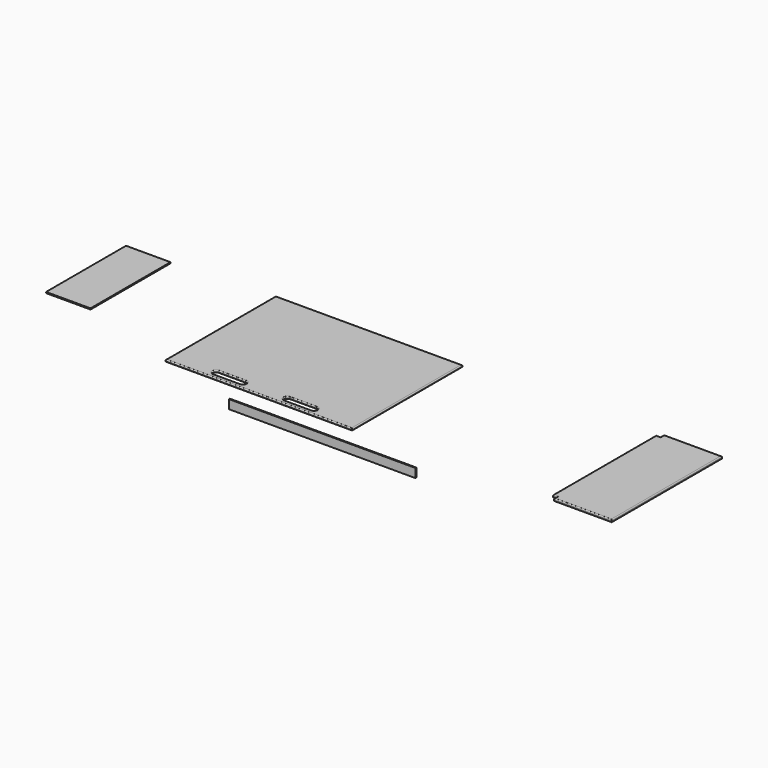
from build123d import *

# Parameters (mm, degrees)
F0_W      = 1066.8
F0_H      = 787.4
F1_DEPTH  = 12.7
F2_R      = 5.08
F3_R      = 5.08
F4_W      = 1066.8
F4_H      = 50.8
F5_DEPTH  = 6.35
F7_DEPTH  = 12.7
F8_R      = 5.08
F9_W      = 254
F9_H      = 571.5
F10_DEPTH = 6.35


with BuildPart() as f1:
    # F0 (on Top) → F1 (new body)
    with BuildSketch(Plane.XY):
        Rectangle(F0_W, F0_H)
        with BuildLine():
            ThreePointArc((-279.4, -368.3), (-298.45, -349.25), (-279.4, -330.2))
            Line((-279.4, -330.2), (-127, -330.2))
            ThreePointArc((-127, -330.2), (-107.95, -349.25), (-127, -368.3))
            Line((-127, -368.3), (-279.4, -368.3))
        make_face(mode=Mode.SUBTRACT)
        with BuildLine():
            Line((127, -330.2), (279.4, -330.2))
            ThreePointArc((279.4, -330.2), (298.45, -349.25), (279.4, -368.3))
            Line((279.4, -368.3), (127, -368.3))
            ThreePointArc((127, -368.3), (107.95, -349.25), (127, -330.2))
        make_face(mode=Mode.SUBTRACT)
    extrude(amount=F1_DEPTH)

    # F2
    f2_edges = [f1.edges().sort_by_distance(p)[0] for p in [
        (533.4, 0, 12.7),
        (0, 393.7, 12.7),
        (-533.4, 0, 12.7),
        (0, -393.7, 12.7),
        (-298.45, -349.25, 12.7),
        (-203.2, -330.2, 12.7),
        (-107.95, -349.25, 12.7),
        (-203.2, -368.3, 12.7),
        (203.2, -330.2, 12.7),
        (298.45, -349.25, 12.7),
        (203.2, -368.3, 12.7),
        (107.95, -349.25, 12.7),
    ]]
    fillet(f2_edges, radius=F2_R)

    # F3
    f3_edges = [f1.edges().sort_by_distance(p)[0] for p in [
        (533.4, 0, 0),
        (0, 393.7, 0),
        (-533.4, 0, 0),
        (0, -393.7, 0),
        (-298.45, -349.25, 0),
        (-203.2, -330.2, 0),
        (-107.95, -349.25, 0),
        (-203.2, -368.3, 0),
        (203.2, -330.2, 0),
        (298.45, -349.25, 0),
        (203.2, -368.3, 0),
        (107.95, -349.25, 0),
    ]]
    fillet(f3_edges, radius=F3_R)


with BuildPart() as f5:
    # F4 (on Front) → F5 (new body)
    with BuildSketch(Plane.XZ):
        with Locations((51.285564, -352.378918)):
            Rectangle(F4_W, F4_H)
    extrude(amount=F5_DEPTH)


with BuildPart() as f7:
    # F6 (on Top) → F7 (new body)
    with BuildSketch(Plane.XY):
        Polygon((1989.472508, 428.702794), (1659.272508, 428.702794), (1659.272508, 403.302794), (1633.872508, 403.302794), (1633.872508, -333.297206), (1659.272508, -333.297206), (1659.272508, -358.697206), (1989.472508, -358.697206), align=None)
    extrude(amount=F7_DEPTH)

    # F8
    f8_edges = [f7.edges().sort_by_distance(p)[0] for p in [
        (1824.372508, 428.702794, 12.7),
        (1659.272508, 416.002794, 12.7),
        (1646.572508, 403.302794, 12.7),
        (1633.872508, 35.002794, 12.7),
        (1646.572508, -333.297206, 12.7),
        (1659.272508, -345.997206, 12.7),
        (1824.372508, -358.697206, 12.7),
        (1989.472508, 35.002794, 12.7),
    ]]
    fillet(f8_edges, radius=F8_R)


with BuildPart() as f10:
    # F9 (on Top) → F10 (new body)
    with BuildSketch(Plane.XY):
        with Locations((-1239.5561, 79.102664)):
            Rectangle(F9_W, F9_H)
    extrude(amount=F10_DEPTH)


solid = Compound([f1.part, f5.part, f7.part, f10.part])
